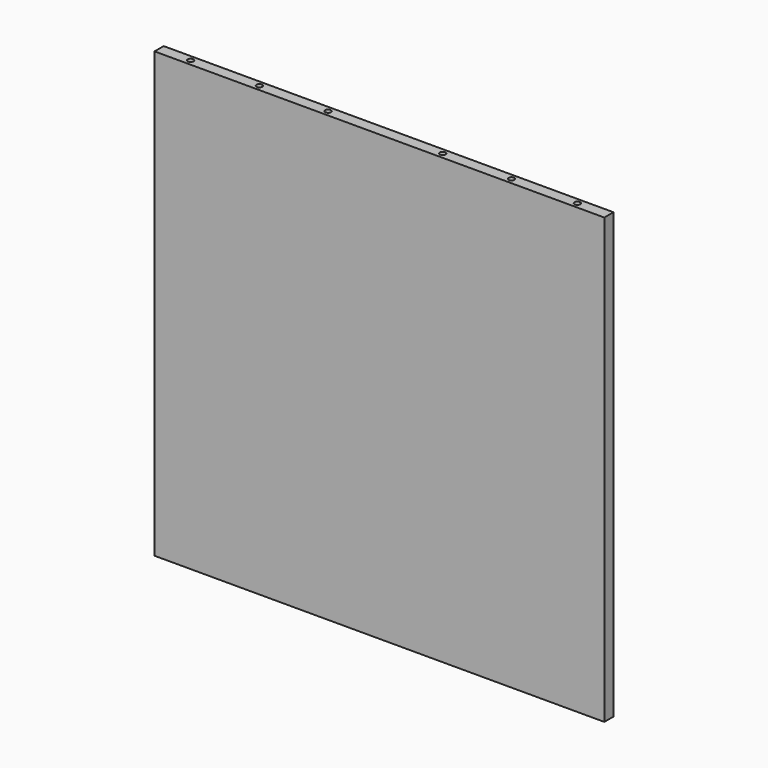
from build123d import *

# Parameters (mm, degrees)
F0_W          = 628
F0_H          = 16
F1_DEPTH      = 620
F2_R          = 4
F3_DEPTH      = 28
F4_R          = 4
F5_DEPTH      = 28
F6_R          = 2.5
F7_DEPTH      = 8
F7_DEPTH_BACK = 4
F8_R          = 4
F9_DEPTH      = 13


with BuildPart() as f1:
    # F0 (on Top) → F1 (new body)
    with BuildSketch(Plane.XY):
        with Locations((6.2449113171, 0)):
            Rectangle(F0_W, F0_H)
    extrude(amount=F1_DEPTH)

    # F2 (on face) → F3 (cut)
    with BuildSketch(Plane(origin=(0, 0, 0), x_dir=(1, 0, 0), z_dir=(0, 0, -1))):
        with Locations((-263.7550886829, 0)):
            Circle(F2_R)
        with Locations((-167.7550886829, 0)):
            Circle(F2_R)
        with Locations((-71.7550886829, 0)):
            Circle(F2_R)
        with Locations((88.2449113171, 0)):
            Circle(F2_R)
        with Locations((276.2449113171, 0)):
            Circle(F2_R)
        with Locations((184.2449113171, 0)):
            Circle(F2_R)
    extrude(amount=-F3_DEPTH, mode=Mode.SUBTRACT)

    # F4 (on face) → F5 (cut)
    with BuildSketch(Plane.XY.offset(620)):
        with Locations((-263.7550886829, 0)):
            Circle(F4_R)
        with Locations((-167.7550886829, 0)):
            Circle(F4_R)
        with Locations((-71.7550886829, 0)):
            Circle(F4_R)
        with Locations((88.2449113171, 0)):
            Circle(F4_R)
        with Locations((276.2449113171, 0)):
            Circle(F4_R)
        with Locations((184.2449113171, 0)):
            Circle(F4_R)
    extrude(amount=-F5_DEPTH, mode=Mode.SUBTRACT)

    # F6 (on Front) → F7 (cut, two sides)
    with BuildSketch(Plane.XZ) as f7_sk:
        with Locations((-290.7550886829, 33)):
            Circle(F6_R)
        with Locations((-66.7550886829, 33)):
            Circle(F6_R)
        with Locations((-194.7550886829, 33)):
            Circle(F6_R)
        with Locations((-34.7550886829, 33)):
            Circle(F6_R)
        with Locations((125.2449113171, 33)):
            Circle(F6_R)
        with Locations((125.2449113171, 301)):
            Circle(F6_R)
        with Locations((-34.7550886829, 301)):
            Circle(F6_R)
        with Locations((-194.7550886829, 301)):
            Circle(F6_R)
        with Locations((-66.7550886829, 301)):
            Circle(F6_R)
        with Locations((-290.7550886829, 301)):
            Circle(F6_R)
        with Locations((125.2449113171, 477)):
            Circle(F6_R)
        with Locations((-34.7550886829, 477)):
            Circle(F6_R)
        with Locations((-194.7550886829, 477)):
            Circle(F6_R)
        with Locations((-66.7550886829, 477)):
            Circle(F6_R)
        with Locations((-290.7550886829, 477)):
            Circle(F6_R)
    extrude(amount=-F7_DEPTH, mode=Mode.SUBTRACT)
    extrude(f7_sk.sketch, amount=F7_DEPTH_BACK, mode=Mode.SUBTRACT)

    # F8 (on face) → F9 (cut)
    with BuildSketch(Plane(origin=(0, 8, 0), x_dir=(-1, 0, 0), z_dir=(0, 1, 0))):
        with Locations((-309.2449113171, 553.3979809284)):
            Circle(F8_R)
        with Locations((-309.2449113171, 457.3979809284)):
            Circle(F8_R)
        with Locations((-309.2449113171, 361.3979809284)):
            Circle(F8_R)
        with Locations((-309.2449113171, 265.3979809284)):
            Circle(F8_R)
        with Locations((-309.2449113171, 169.3979809284)):
            Circle(F8_R)
        with Locations((-309.2449113171, 73.3979809284)):
            Circle(F8_R)
    extrude(amount=-F9_DEPTH, mode=Mode.SUBTRACT)


solid = f1.part
